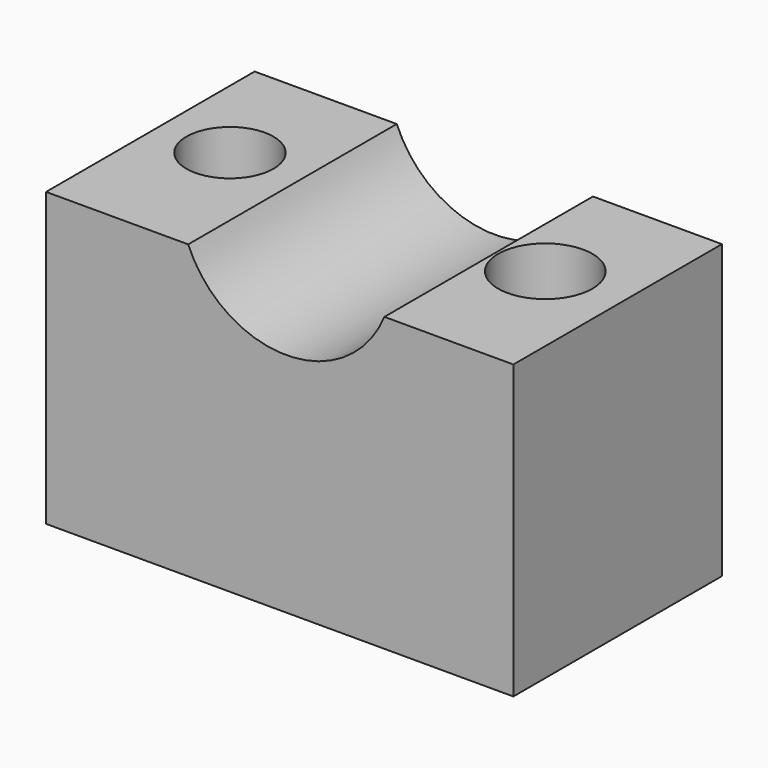
from build123d import *

# Parameters (mm, degrees)
F0_W     = 81.2149718404
F0_H     = 45.3068669885
F1_DEPTH = 50.8
F2_R     = 7.5673646555
F2_R_2   = 8.1937983632
F3_DEPTH = 25.4
F5_DEPTH = 25.4
F7_DEPTH = 25.4


with BuildPart() as f1:
    # F0 (on Top) → F1 (new body)
    with BuildSketch(Plane.XY):
        with Locations((15.9056037664, 3.0124252662)):
            Rectangle(F0_W, F0_H)
    extrude(amount=F1_DEPTH)

    # F2 (on face) → F3 (cut)
    with BuildSketch(Plane.XY.offset(50.8)):
        with Locations((-12.4111901969, 4.940376617)):
            Circle(F2_R)
        with Locations((42.7764281631, 4.4583887793)):
            Circle(F2_R_2)
    extrude(amount=-F3_DEPTH, mode=Mode.SUBTRACT)

    # F4 (on face) → F5 (cut)
    with BuildSketch(Plane.XZ.offset(19.6410082281)):
        with BuildLine():
            Line((34.1006480157, 50.8), (0, 50.8))
            ThreePointArc((0, 50.8), (17.0503240079, 39.4000553567), (34.1006480157, 50.8))
        make_face()
    extrude(amount=-F5_DEPTH, mode=Mode.SUBTRACT)

    # F6 (on face) → F7 (cut)
    with BuildSketch(Plane.XZ.offset(-5.7589917719)):
        with BuildLine():
            Line((34.1006480157, 50.8), (0, 50.8))
            ThreePointArc((0, 50.8), (17.0503240079, 39.4000553567), (34.1006480157, 50.8))
        make_face()
    extrude(amount=-F7_DEPTH, mode=Mode.SUBTRACT)


solid = f1.part
